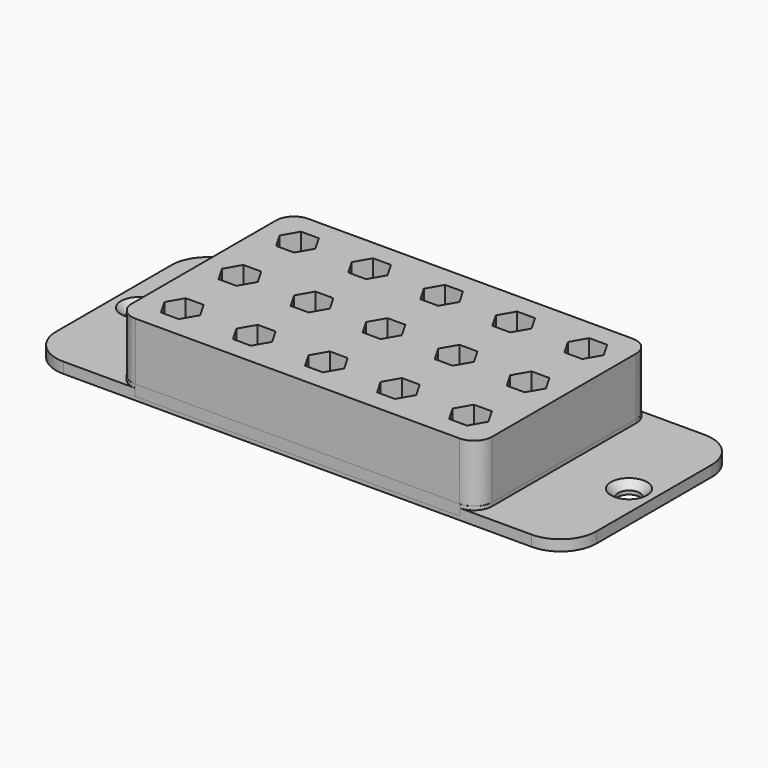
from build123d import *

# Parameters (mm, degrees)
SKETCH_R        = 3
PAD_DEPTH       = 3
CHAMFER_SIZE    = 2
PAD001_DEPTH    = 20
POCKET_DEPTH    = 7
SKETCH003_R     = 3
POCKET001_DEPTH = 20
SKETCH004_R     = 3
SKETCH004_R_2   = 5
PAD002_DEPTH    = 5
CHAMFER001_SIZE = 1


with BuildPart() as base:
    # Sketch → Pad (new body)
    with BuildSketch(Plane.XY):
        with BuildLine():
            Line((-65, 30), (65, 30))
            ThreePointArc((75, 20), (72.071068, 27.071068), (65, 30))
            Line((75, 20), (75, -20))
            ThreePointArc((65, -30), (72.071068, -27.071068), (75, -20))
            Line((65, -30), (-65, -30))
            ThreePointArc((-75, -20), (-72.071068, -27.071068), (-65, -30))
            Line((-75, -20), (-75, 20))
            ThreePointArc((-65, 30), (-72.071068, 27.071068), (-75, 20))
        make_face()
        with Locations((-68, 0)):
            Circle(SKETCH_R, mode=Mode.SUBTRACT)
        with Locations((68, 0)):
            Circle(SKETCH_R, mode=Mode.SUBTRACT)
    extrude(amount=PAD_DEPTH)

    # Chamfer
    chamfer_edges = [base.edges().sort_by_distance(p)[0] for p in [
        (-71, 0, 3),
        (65, 0, 3),
    ]]
    chamfer(chamfer_edges, length=CHAMFER_SIZE)

    # Sketch001 → Pad001 (join)
    with BuildSketch(Plane.XY):
        with BuildLine():
            Line((-45, 30), (45, 30))
            ThreePointArc((50, 25), (48.535534, 28.535534), (45, 30))
            Line((50, 25), (50, -25))
            ThreePointArc((45, -30), (48.535534, -28.535534), (50, -25))
            Line((45, -30), (-45, -30))
            ThreePointArc((-50, -25), (-48.535534, -28.535534), (-45, -30))
            Line((-50, -25), (-50, 25))
            ThreePointArc((-45, 30), (-48.535534, 28.535534), (-50, 25))
        make_face()
    extrude(amount=PAD001_DEPTH)

    # Sketch002 (on Face16 of Pad001) → Pocket (cut)
    with BuildSketch(Plane.XY.offset(20)):
        Polygon((-37.517394, 15.7), (-35.034788, 20), (-37.517394, 24.3), (-42.482606, 24.3), (-44.965212, 20), (-42.482606, 15.7), align=None)
        Polygon((-37.517394, -4.3), (-35.034788, 0), (-37.517394, 4.3), (-42.482606, 4.3), (-44.965212, 0), (-42.482606, -4.3), align=None)
        Polygon((-37.517394, -24.3), (-35.034788, -20), (-37.517394, -15.7), (-42.482606, -15.7), (-44.965212, -20), (-42.482606, -24.3), align=None)
        Polygon((-17.517394, 15.7), (-15.034788, 20), (-17.517394, 24.3), (-22.482606, 24.3), (-24.965212, 20), (-22.482606, 15.7), align=None)
        Polygon((-17.517394, -4.3), (-15.034788, 0), (-17.517394, 4.3), (-22.482606, 4.3), (-24.965212, 0), (-22.482606, -4.3), align=None)
        Polygon((-17.517394, -24.3), (-15.034788, -20), (-17.517394, -15.7), (-22.482606, -15.7), (-24.965212, -20), (-22.482606, -24.3), align=None)
        Polygon((2.482606, 15.7), (4.965212, 20), (2.482606, 24.3), (-2.482606, 24.3), (-4.965212, 20), (-2.482606, 15.7), align=None)
        Polygon((2.482606, -4.3), (4.965212, 0), (2.482606, 4.3), (-2.482606, 4.3), (-4.965212, 0), (-2.482606, -4.3), align=None)
        Polygon((2.482606, -24.3), (4.965212, -20), (2.482606, -15.7), (-2.482606, -15.7), (-4.965212, -20), (-2.482606, -24.3), align=None)
        Polygon((22.482606, 15.7), (24.965212, 20), (22.482606, 24.3), (17.517394, 24.3), (15.034788, 20), (17.517394, 15.7), align=None)
        Polygon((22.482606, -4.3), (24.965212, 0), (22.482606, 4.3), (17.517394, 4.3), (15.034788, 0), (17.517394, -4.3), align=None)
        Polygon((22.482606, -24.3), (24.965212, -20), (22.482606, -15.7), (17.517394, -15.7), (15.034788, -20), (17.517394, -24.3), align=None)
        Polygon((42.482606, 15.7), (44.965212, 20), (42.482606, 24.3), (37.517394, 24.3), (35.034788, 20), (37.517394, 15.7), align=None)
        Polygon((42.482606, -4.3), (44.965212, 0), (42.482606, 4.3), (37.517394, 4.3), (35.034788, 0), (37.517394, -4.3), align=None)
        Polygon((42.482606, -24.3), (44.965212, -20), (42.482606, -15.7), (37.517394, -15.7), (35.034788, -20), (37.517394, -24.3), align=None)
    extrude(amount=-POCKET_DEPTH, mode=Mode.SUBTRACT)

    # Sketch003 → Pocket001 (cut)
    with BuildSketch(Plane.XY):
        with Locations((-40, 20)):
            Circle(SKETCH003_R)
        with Locations((-40, 0)):
            Circle(SKETCH003_R)
        with Locations((-40, -20)):
            Circle(SKETCH003_R)
        with Locations((-20, 20)):
            Circle(SKETCH003_R)
        with Locations((-20, 0)):
            Circle(SKETCH003_R)
        with Locations((-20, -20)):
            Circle(SKETCH003_R)
        with Locations((0, 20)):
            Circle(SKETCH003_R)
        Circle(SKETCH003_R)
        with Locations((0, -20)):
            Circle(SKETCH003_R)
        with Locations((20, 20)):
            Circle(SKETCH003_R)
        with Locations((20, 0)):
            Circle(SKETCH003_R)
        with Locations((20, -20)):
            Circle(SKETCH003_R)
        with Locations((40, 20)):
            Circle(SKETCH003_R)
        with Locations((40, 0)):
            Circle(SKETCH003_R)
        with Locations((40, -20)):
            Circle(SKETCH003_R)
    extrude(amount=POCKET001_DEPTH, mode=Mode.SUBTRACT)


with BuildPart() as cap:
    # Sketch004 → Pad002 (new body)
    with BuildSketch(Plane.XY):
        with BuildLine():
            Line((-45.098881, 30), (45.043981, 30))
            ThreePointArc((50, 25.043981), (48.548416, 28.548416), (45.043981, 30))
            Line((50, 25.043981), (50, -25.041851))
            ThreePointArc((45.041851, -30), (48.547792, -28.547792), (50, -25.041851))
            Line((45.041851, -30), (-45.085968, -30))
            ThreePointArc((-50, -25.085968), (-48.560713, -28.560713), (-45.085968, -30))
            Line((-50, -25.085968), (-50, 25.098881))
            ThreePointArc((-45.098881, 30), (-48.564495, 28.564495), (-50, 25.098881))
        make_face()
        with Locations((-40, 20)):
            Circle(SKETCH004_R, mode=Mode.SUBTRACT)
        with Locations((-40, 0)):
            Circle(SKETCH004_R_2, mode=Mode.SUBTRACT)
        with Locations((-40, -20)):
            Circle(SKETCH004_R, mode=Mode.SUBTRACT)
        with Locations((-20, 20)):
            Circle(SKETCH004_R_2, mode=Mode.SUBTRACT)
        with Locations((-20, 0)):
            Circle(SKETCH004_R_2, mode=Mode.SUBTRACT)
        with Locations((-20, -20)):
            Circle(SKETCH004_R_2, mode=Mode.SUBTRACT)
        with Locations((0, 20)):
            Circle(SKETCH004_R_2, mode=Mode.SUBTRACT)
        Circle(SKETCH004_R_2, mode=Mode.SUBTRACT)
        with Locations((0, -20)):
            Circle(SKETCH004_R_2, mode=Mode.SUBTRACT)
        with Locations((20, 20)):
            Circle(SKETCH004_R_2, mode=Mode.SUBTRACT)
        with Locations((20, 0)):
            Circle(SKETCH004_R_2, mode=Mode.SUBTRACT)
        with Locations((20, -20)):
            Circle(SKETCH004_R_2, mode=Mode.SUBTRACT)
        with Locations((40, 20)):
            Circle(SKETCH004_R, mode=Mode.SUBTRACT)
        with Locations((40, 0)):
            Circle(SKETCH004_R_2, mode=Mode.SUBTRACT)
        with Locations((40, -20)):
            Circle(SKETCH004_R, mode=Mode.SUBTRACT)
    extrude(amount=PAD002_DEPTH)

    # Chamfer001
    chamfer001_edges = [cap.edges().sort_by_distance(p)[0] for p in [
        (-50, 0.006456, 5),
        (-48.564495, 28.564495, 5),
        (-0.02745, 30, 5),
        (48.548416, 28.548416, 5),
        (50, 0.001065, 5),
        (48.547792, -28.547792, 5),
        (-0.022059, -30, 5),
        (-48.560713, -28.560713, 5),
        (35, 0, 5),
        (15, -20, 5),
        (15, 0, 5),
        (15, 20, 5),
        (-5, -20, 5),
        (-5, 0, 5),
        (-5, 20, 5),
        (-25, -20, 5),
        (-25, 0, 5),
        (-25, 20, 5),
        (-45, 0, 5),
        (37, -20, 5),
        (37, 20, 5),
        (-43, -20, 5),
        (-43, 20, 5),
        (-50, 0.006456, 0),
        (-48.564495, 28.564495, 0),
        (-0.02745, 30, 0),
        (48.548416, 28.548416, 0),
        (50, 0.001065, 0),
        (48.547792, -28.547792, 0),
        (-0.022059, -30, 0),
        (-48.560713, -28.560713, 0),
        (35, 0, 0),
        (15, -20, 0),
        (15, 0, 0),
        (15, 20, 0),
        (-5, -20, 0),
        (-5, 0, 0),
        (-5, 20, 0),
        (-25, -20, 0),
        (-25, 0, 0),
        (-25, 20, 0),
        (-45, 0, 0),
        (37, -20, 0),
        (37, 20, 0),
        (-43, -20, 0),
        (-43, 20, 0),
    ]]
    chamfer(chamfer001_edges, length=CHAMFER001_SIZE)


solid = Compound([base.part, cap.part])
